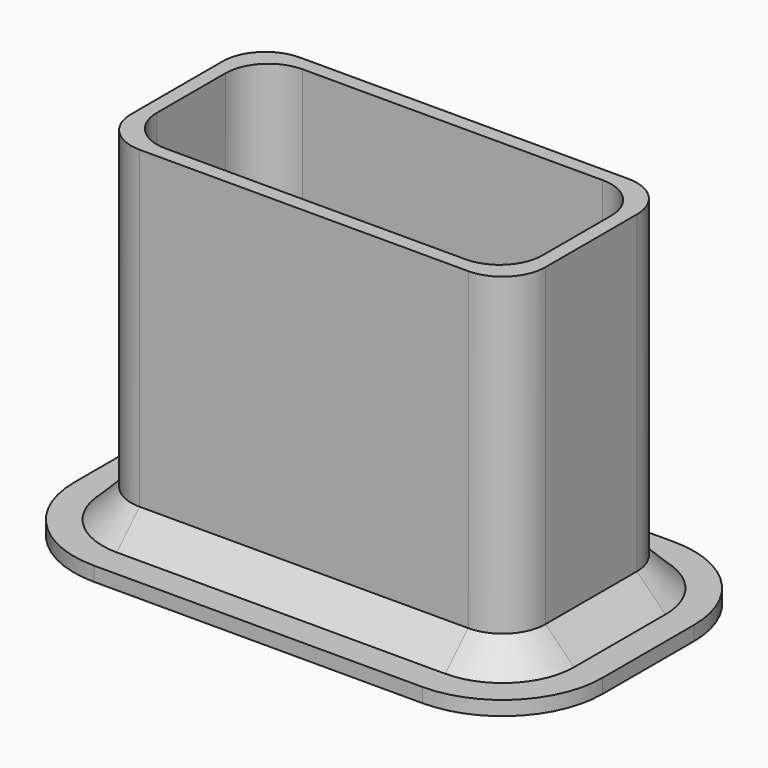
from build123d import *

# Parameters (mm, degrees)
F0_W     = 145
F0_H     = 70
F0_W_2   = 135
F0_H_2   = 60
F1_DEPTH = 125
F2_DEPTH = 5
F3_R     = 15
F5_DEPTH = 5
F6_SIZE  = 10


with BuildPart() as f1:
    # F0 (on Top) → F1 (new body)
    with BuildSketch(Plane.XY):
        Rectangle(F0_W, F0_H)
        Rectangle(F0_W_2, F0_H_2, mode=Mode.SUBTRACT)
    extrude(amount=F1_DEPTH)

    # F0 (on Top) → F2 (join)
    with BuildSketch(Plane.XY):
        Rectangle(F0_W_2, F0_H_2)
    extrude(amount=F2_DEPTH)

    # F3
    f3_edges = [f1.edges().sort_by_distance(p)[0] for p in [
        (-72.5, 35, 62.5),
        (-67.5, 30, 65),
        (-67.5, -30, 65),
        (-72.5, -35, 62.5),
        (72.5, -35, 62.5),
        (67.5, -30, 65),
        (67.5, 30, 65),
        (72.5, 35, 62.5),
    ]]
    fillet(f3_edges, radius=F3_R)

    # F4 (on face) → F5 (join)
    with BuildSketch(Plane(origin=(0, 0, 0), x_dir=(1, 0, 0), z_dir=(0, 0, -1))):
        with BuildLine():
            Line((57.5, 55), (-57.5, 55))
            ThreePointArc((-57.5, 55), (-82.2487373415, 44.7487373415), (-92.5, 20))
            Line((-92.5, 20), (-92.5, -20))
            ThreePointArc((-92.5, -20), (-82.2487373415, -44.7487373415), (-57.5, -55))
            Line((-57.5, -55), (57.5, -55))
            ThreePointArc((57.5, -55), (82.2487373415, -44.7487373415), (92.5, -20))
            Line((92.5, -20), (92.5, 20))
            ThreePointArc((92.5, 20), (82.2487373415, 44.7487373415), (57.5, 55))
        make_face()
    extrude(amount=-F5_DEPTH)

    # F6
    f6_edges = [f1.edges().sort_by_distance(p)[0] for p in [
        (-68.106602, 30.606602, 5),
    ]]
    chamfer(f6_edges, length=F6_SIZE)


solid = f1.part
